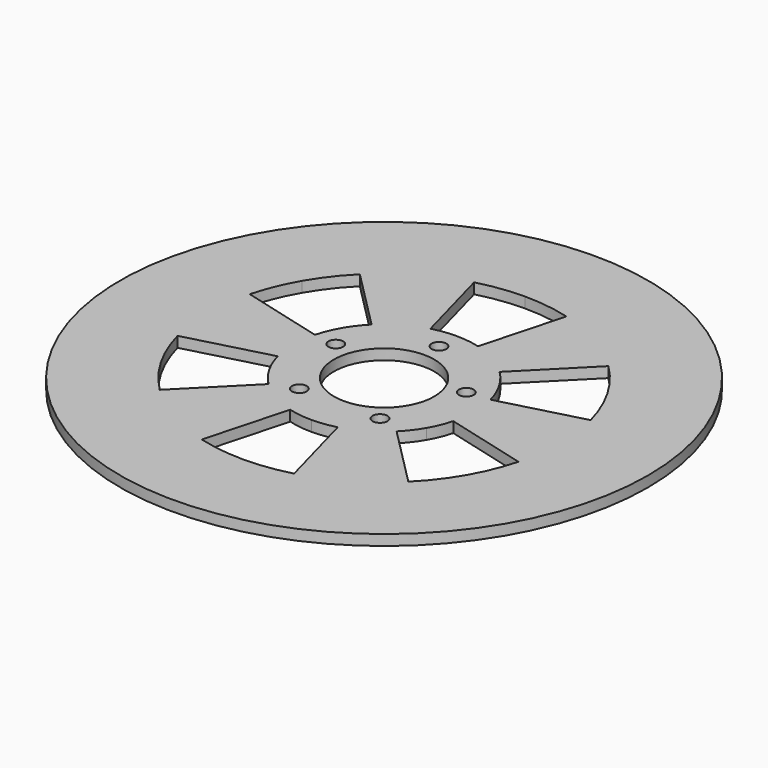
from build123d import *

# Parameters (mm, degrees)
SKETCH_R                = 250
SKETCH_R_2              = 47.5
PAD_DEPTH               = 10
POCKET_DEPTH            = 1424.355977
POCKET_MIRRORED_2_DEPTH = 1424.355977
POLARPATTERN_COUNT      = 6
SKETCH002_R             = 7
POCKET001_DEPTH         = 1424.355977
POLARPATTERN001_COUNT   = 5


with BuildPart() as part:
    # Sketch → Pad (new body)
    with BuildSketch(Plane.XY):
        Circle(SKETCH_R)
        Circle(SKETCH_R_2, mode=Mode.SUBTRACT)
    extrude(amount=PAD_DEPTH)

    # Sketch001 (on Face4 of Pad) → Pocket (cut, through all)
    with BuildSketch(Plane.XY.offset(10)):
        with BuildLine():
            Line((22.514747, 83.000519), (43.720498, 161.175426))
            ThreePointArc((43.720498, 161.175426), (22.053387, 165.537452), (0, 167))
            Line((0, 86), (0, 167))
            ThreePointArc((22.514747, 83.000519), (11.356834, 85.246832), (0, 86))
        make_face()
    pocket = extrude(amount=-POCKET_DEPTH, mode=Mode.SUBTRACT)

    # Sketch001 Mirrored 2 → Pocket Mirrored 2 (cut, through all)
    with BuildSketch(Plane(origin=(0, 0, 10), x_dir=(-1, 0, 0), z_dir=(0, 0, -1))):
        with BuildLine():
            Line((22.514747, 83.000519), (43.720498, 161.175426))
            ThreePointArc((43.720498, 161.175426), (22.053387, 165.537452), (0, 167))
            Line((0, 86), (0, 167))
            ThreePointArc((22.514747, 83.000519), (11.356834, 85.246832), (0, 86))
        make_face()
    pocket_mirrored_2 = extrude(amount=POCKET_MIRRORED_2_DEPTH, mode=Mode.SUBTRACT)

    # PolarPattern: Pocket, Pocket Mirrored 2 ×6 about axis
    polarpattern_axis = Axis((0, 0, 10), (0, 0, 1))
    for i in range(1, POLARPATTERN_COUNT):
        add(pocket.rotate(polarpattern_axis, i * 360 / POLARPATTERN_COUNT), mode=Mode.SUBTRACT)
        add(pocket_mirrored_2.rotate(polarpattern_axis, i * 360 / POLARPATTERN_COUNT), mode=Mode.SUBTRACT)

    # Sketch002 (on Face4 of Pad) → Pocket001 (cut, through all)
    with BuildSketch(Plane.XY.offset(10)):
        with Locations((0, 65)):
            Circle(SKETCH002_R)
    pocket001 = extrude(amount=-POCKET001_DEPTH, mode=Mode.SUBTRACT)

    # PolarPattern001: Pocket001 ×5 about axis
    polarpattern001_axis = Axis((0, 0, 10), (0, 0, 1))
    for i in range(1, POLARPATTERN001_COUNT):
        add(pocket001.rotate(polarpattern001_axis, i * 360 / POLARPATTERN001_COUNT), mode=Mode.SUBTRACT)


solid = part.part
